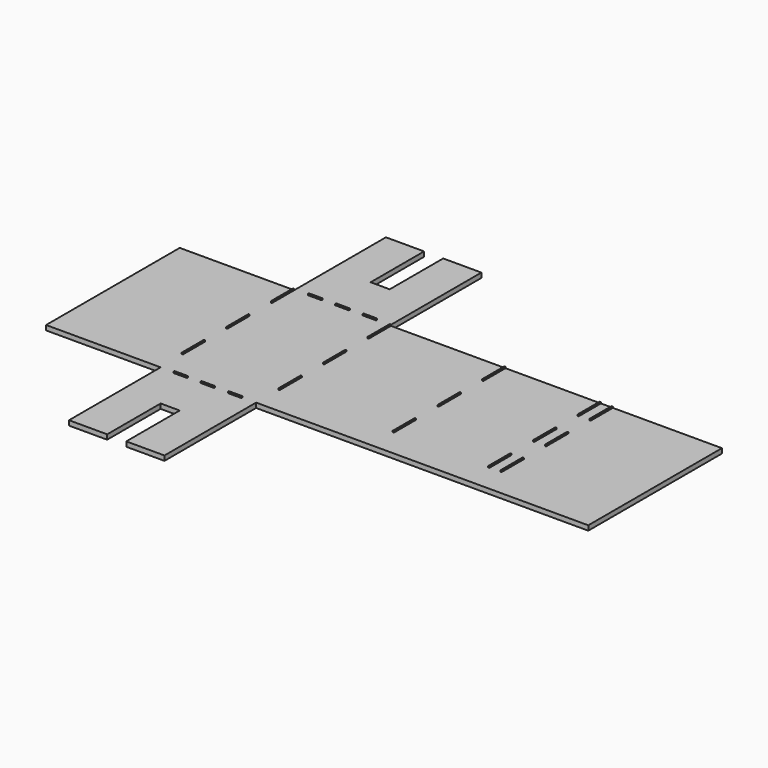
from build123d import *

# Parameters (mm, degrees)
F1_DEPTH = 3.175
F2_W     = 0.8128
F2_H     = 18.520833
F2_H_2   = 18.520834
F2_W_2   = 9.071428
F2_H_3   = 0.8128
F3_DEPTH = 0.8128


with BuildPart() as f1:
    # F0 (on Top) → F1 (new body)
    with BuildSketch(Plane.XY):
        Polygon((0, 111.125), (0, 187.325), (-25.4, 187.325), (-25.4, 142.875), (-38.1, 142.875), (-38.1, 187.325), (-63.5, 187.325), (-63.5, 111.125), (-139.7, 111.125), (-139.7, 0), (-63.5, 0), (-63.5, -76.2), (-38.1, -76.2), (-38.1, -31.75), (-25.4, -31.75), (-25.4, -76.2), (0, -76.2), (0, 0), (220.98, 0), (220.98, 111.125), align=None)
    extrude(amount=F1_DEPTH)

    # F2 (on face) → F3 (join)
    with BuildSketch(Plane.XY.offset(3.175)):
        with Locations((-63.9064, 101.864583)):
            Rectangle(F2_W, F2_H)
        with Locations((-63.9064, 64.822916)):
            Rectangle(F2_W, F2_H)
        with Locations((-63.9064, 27.78125)):
            Rectangle(F2_W, F2_H_2)
        with Locations((0.4064, 27.78125)):
            Rectangle(F2_W, F2_H_2)
        with Locations((0.4064, 64.822916)):
            Rectangle(F2_W, F2_H)
        with Locations((0.4064, 101.864583)):
            Rectangle(F2_W, F2_H)
        with Locations((76.6064, 101.889292)):
            Rectangle(F2_W, F2_H_2)
        with Locations((76.6064, 64.847625)):
            Rectangle(F2_W, F2_H)
        with Locations((76.6064, 27.547179)):
            Rectangle(F2_W, F2_H)
        with Locations((140.1064, 101.864583)):
            Rectangle(F2_W, F2_H)
        with Locations((140.1064, 27.52247)):
            Rectangle(F2_W, F2_H)
        with Locations((140.1064, 64.822916)):
            Rectangle(F2_W, F2_H)
        with Locations((148.0439, 101.864583)):
            Rectangle(F2_W, F2_H)
        with Locations((148.0439, 64.822916)):
            Rectangle(F2_W, F2_H)
        with Locations((148.0439, 27.78125)):
            Rectangle(F2_W, F2_H_2)
        with Locations((-49.892857, -0.4064)):
            Rectangle(F2_W_2, F2_H_3)
        with Locations((-31.75, -0.4064)):
            Rectangle(F2_W_2, F2_H_3)
        with Locations((-13.607143, -0.4064)):
            Rectangle(F2_W_2, F2_H_3)
        with Locations((-31.75, 111.5314)):
            Rectangle(F2_W_2, F2_H_3)
        with Locations((-13.607143, 111.5314)):
            Rectangle(F2_W_2, F2_H_3)
        with Locations((-49.892857, 111.5314)):
            Rectangle(F2_W_2, F2_H_3)
    extrude(amount=F3_DEPTH)


solid = f1.part
